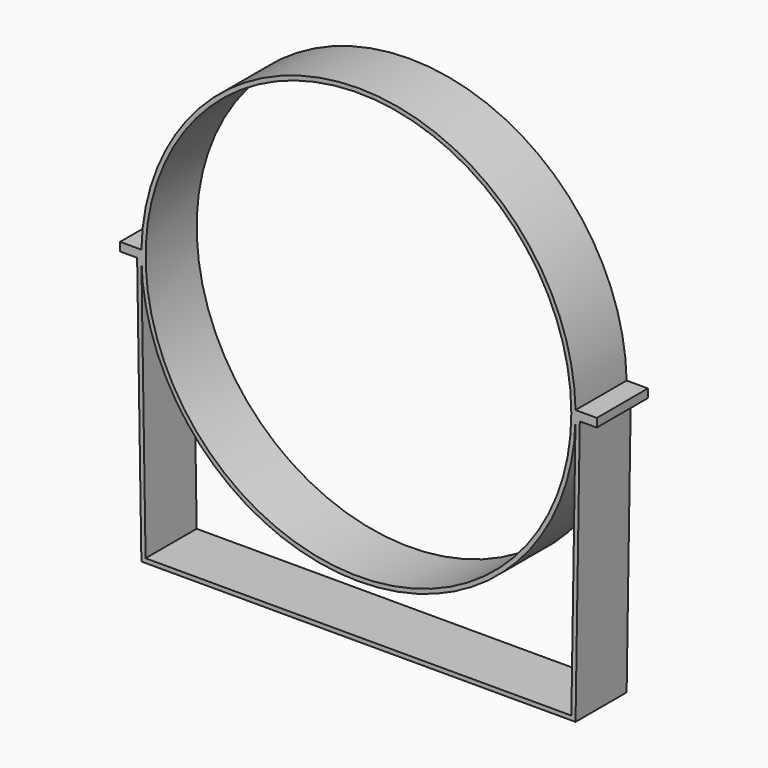
from build123d import *

# Parameters (mm, degrees)
F0_R     = 200
F1_DEPTH = 60


with BuildPart() as f1:
    # F0 (on Front) → F1 (new body)
    with BuildSketch(Plane.XZ):
        with BuildLine():
            ThreePointArc((203.960781, -4), (203.990195, -2.000096), (204, 0))
            ThreePointArc((204, 0), (203.990195, 2.000096), (203.960781, 4))
            ThreePointArc((203.960781, 4), (0, 204), (-203.960781, 4))
            ThreePointArc((-203.960781, 4), (-204, 0), (-203.960781, -4))
            ThreePointArc((-203.960781, -4), (0, -204), (203.960781, -4))
        make_face()
        Circle(F0_R, mode=Mode.SUBTRACT)
        with BuildLine():
            ThreePointArc((203.960781, 4), (203.990195, 2.000096), (204, 0))
            ThreePointArc((204, 0), (203.990195, -2.000096), (203.960781, -4))
            Line((203.960781, -4), (207.961293, -4))
            Line((207.961293, -4), (223.960781, -4))
            Line((223.960781, -4), (223.960781, 0))
            Line((223.960781, 0), (223.960781, 4))
            Line((223.960781, 4), (203.960781, 4))
        make_face()
        Polygon((207.961293, -4), (203.960781, -4), (200.024285, -249.96799), (-200.024285, -249.96799), (-203.960781, -4), (-207.961293, -4), (-203.960781, -253.96799), (203.960781, -253.96799), align=None)
        with BuildLine():
            ThreePointArc((-203.960781, -4), (-204, 0), (-203.960781, 4))
            Line((-203.960781, 4), (-223.960781, 4))
            Line((-223.960781, 4), (-223.960781, 0))
            Line((-223.960781, 0), (-223.960781, -4))
            Line((-223.960781, -4), (-207.961293, -4))
            Line((-207.961293, -4), (-203.960781, -4))
        make_face()
    extrude(amount=F1_DEPTH)


solid = f1.part
